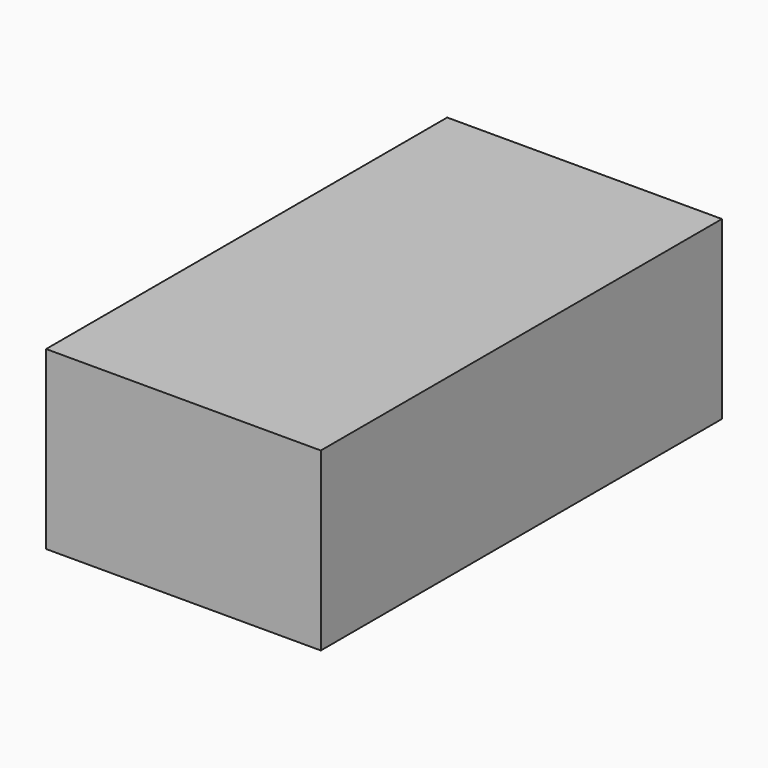
from build123d import *

# Parameters (mm, degrees)
F1_W     = 39.008707
F1_H     = 71.189165
F2_DEPTH = 25


with BuildPart() as f2:
    # F1 (on offset) → F2 (new body)
    with BuildSketch(Plane.XY.offset(125)):
        with Locations((19.504354, 35.594583)):
            Rectangle(F1_W, F1_H)
    extrude(amount=F2_DEPTH)


solid = f2.part
